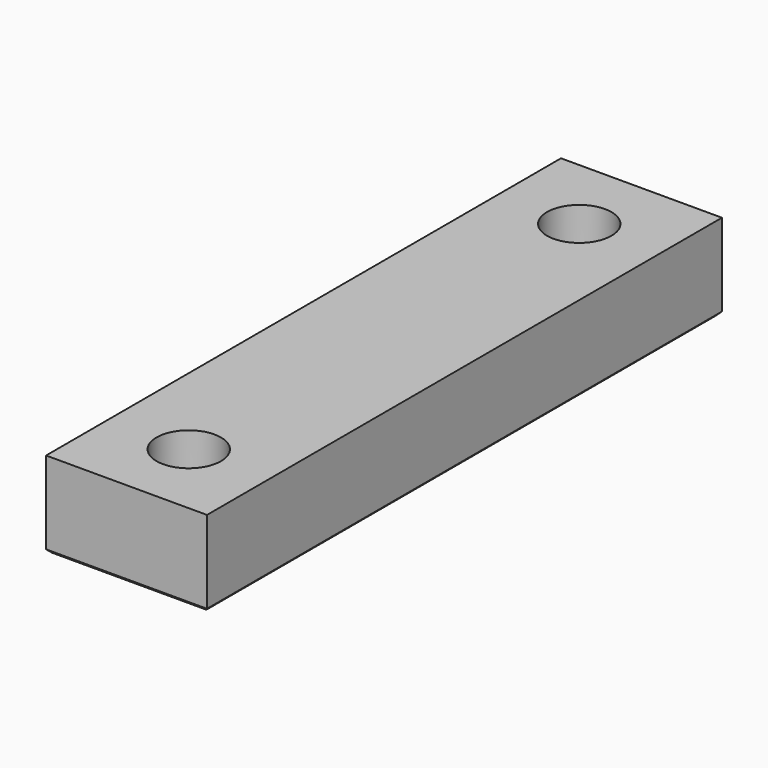
from build123d import *

# Parameters (mm, degrees)
F0_W     = 15
F0_H     = 60
F0_R     = 3
F1_DEPTH = 8
F2_SIZE  = 0.3


with BuildPart() as f1:
    # F0 (on Top) → F1 (new body)
    with BuildSketch(Plane.XY):
        Rectangle(F0_W, F0_H)
        with Locations((0, -22.75)):
            Circle(F0_R, mode=Mode.SUBTRACT)
        with Locations((0, 22.75)):
            Circle(F0_R, mode=Mode.SUBTRACT)
    extrude(amount=F1_DEPTH)

    # F2
    f2_edges = [f1.edges().sort_by_distance(p)[0] for p in [
        (7.5, 0, 0),
        (0, 30, 0),
        (-7.5, 0, 0),
        (0, -30, 0),
        (-3, -22.75, 0),
        (-3, 22.75, 0),
    ]]
    chamfer(f2_edges, length=F2_SIZE)


solid = f1.part
